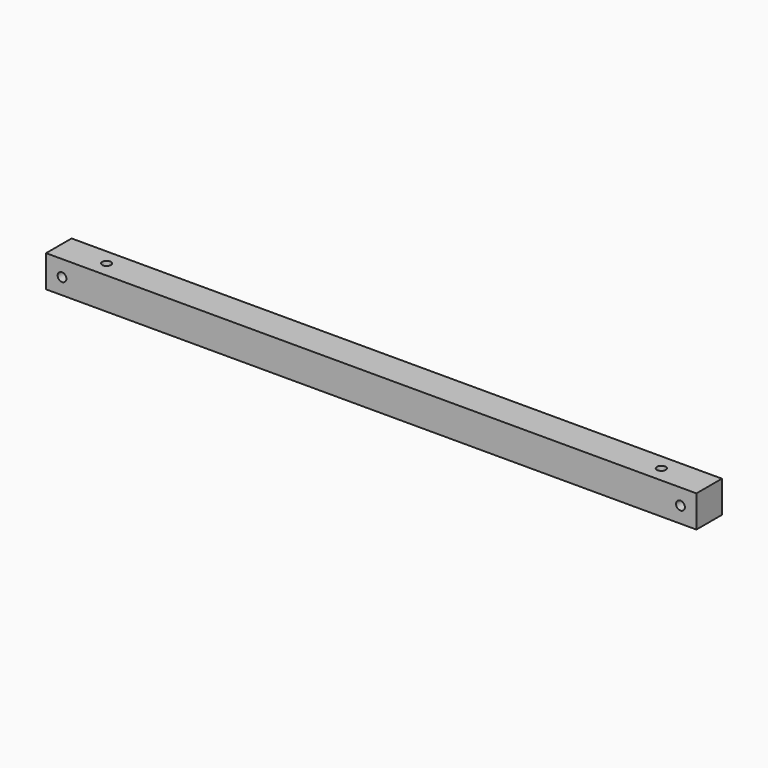
from build123d import *

# Parameters (mm, degrees)
F0_W     = 408
F0_H     = 20
F0_R     = 2.75
F1_DEPTH = 20
F2_R     = 2.75
F3_DEPTH = 20


with BuildPart() as f1:
    # F0 (on Front) → F1 (new body)
    with BuildSketch(Plane.XZ):
        Rectangle(F0_W, F0_H)
        with Locations((-194, 0)):
            Circle(F0_R, mode=Mode.SUBTRACT)
        with Locations((194, 0)):
            Circle(F0_R, mode=Mode.SUBTRACT)
    extrude(amount=F1_DEPTH)

    # F2 (on face) → F3 (cut)
    with BuildSketch(Plane.XY.offset(10)):
        with Locations((-174, -10)):
            Circle(F2_R)
        with Locations((174, -10)):
            Circle(F2_R)
    extrude(amount=-F3_DEPTH, mode=Mode.SUBTRACT)


solid = f1.part
